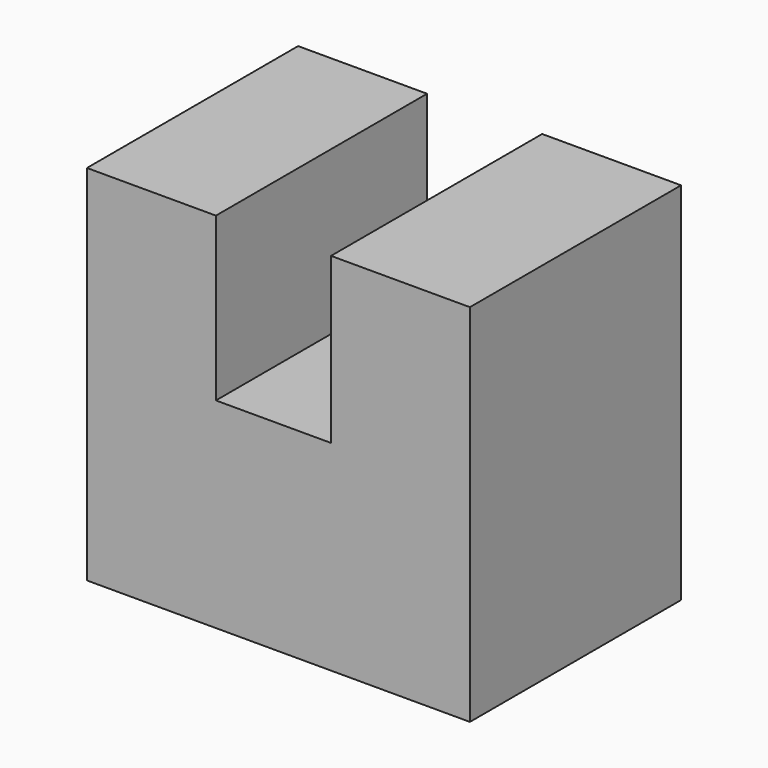
from build123d import *

# Parameters (mm, degrees)
F1_DEPTH = 25.4
F4_DEPTH = 25.4


with BuildPart() as f1:
    # F0 (on Front) → F1 (new body)
    with BuildSketch(Plane.XZ):
        Polygon((-51.1758476496, 56.7135326564), (-63.5878965259, 56.522578001), (-63.5878965259, 0), (-8.4020039067, 0), (-8.4020039067, 56.522578001), (-21.959785372, 56.522578001), (-21.959785372, 11.6482349113), (-51.1758476496, 11.6482349113), align=None)
    extrude(amount=F1_DEPTH)


with BuildPart() as f4:
    # F3 (on Front) → F4 (new body)
    with BuildSketch(Plane.XZ):
        Polygon((-61.2964443862, 34.9447019398), (-61.2964443862, 33.4170646966), (-61.2964443862, 0), (-24.4421958923, 0), (-24.4421958923, 35.1356565952), (-37.809021771, 35.1356565952), (-37.809021771, 19.2864201963), (-48.8843917847, 19.2864201963), (-48.8843917847, 34.9447019398), align=None)
    extrude(amount=F4_DEPTH)


solid = f4.part
